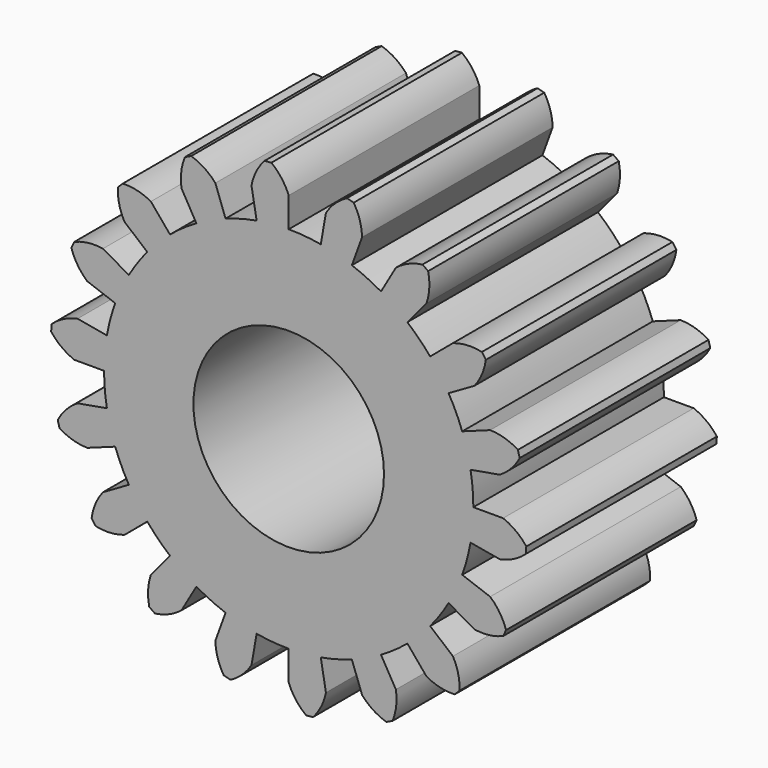
from build123d import *

# Parameters (mm, degrees)
F0_R     = 4
F1_DEPTH = 10


with BuildPart() as f1:
    # F0 (on Front) → F1 (new body)
    with BuildSketch(Plane.XZ):
        with BuildLine():
            Line((-1.562834, 8.86327), (-1.345773, 7.63226))
            ThreePointArc((-1.345773, 7.63226), (-2.005848, 7.485925), (-2.650656, 7.282618))
            Line((-2.650656, 7.282618), (-3.078181, 8.457234))
            ThreePointArc((-3.078181, 8.457234), (-3.540527, 8.860187), (-4.094507, 9.123322))
            Line((-4.094507, 9.123322), (-4.356972, 9.000933))
            ThreePointArc((-4.356972, 9.000933), (-4.51149, 8.407419), (-4.5, 7.794229))
            Line((-4.5, 7.794229), (-3.875, 6.711697))
            ThreePointArc((-3.875, 6.711697), (-4.445217, 6.348428), (-4.981604, 5.936844))
            Line((-4.981604, 5.936844), (-5.785088, 6.8944))
            ThreePointArc((-5.785088, 6.8944), (-6.357369, 7.114921), (-6.967938, 7.172715))
            Line((-6.967938, 7.172715), (-7.172715, 6.967938))
            ThreePointArc((-7.172715, 6.967938), (-7.114921, 6.357369), (-6.8944, 5.785088))
            Line((-6.8944, 5.785088), (-5.936844, 4.981604))
            ThreePointArc((-5.936844, 4.981604), (-6.348428, 4.445217), (-6.711697, 3.875))
            Line((-6.711697, 3.875), (-7.794229, 4.5))
            ThreePointArc((-7.794229, 4.5), (-8.407419, 4.51149), (-9.000933, 4.356972))
            Line((-9.000933, 4.356972), (-9.123322, 4.094507))
            ThreePointArc((-9.123322, 4.094507), (-8.860187, 3.540527), (-8.457234, 3.078181))
            Line((-8.457234, 3.078181), (-7.282618, 2.650656))
            ThreePointArc((-7.282618, 2.650656), (-7.485925, 2.005848), (-7.63226, 1.345773))
            Line((-7.63226, 1.345773), (-8.86327, 1.562834))
            ThreePointArc((-8.86327, 1.562834), (-9.44341, 1.363908), (-9.948283, 1.015714))
            Line((-9.948283, 1.015714), (-9.973523, 0.727218))
            ThreePointArc((-9.973523, 0.727218), (-9.536784, 0.296644), (-9, 0))
            Line((-9, 0), (-7.75, 0))
            ThreePointArc((-7.75, 0), (-7.720509, -0.675457), (-7.63226, -1.345773))
            Line((-7.63226, -1.345773), (-8.86327, -1.562834))
            ThreePointArc((-8.86327, -1.562834), (-9.340387, -1.948183), (-9.695722, -2.448054))
            Line((-9.695722, -2.448054), (-9.620769, -2.727784))
            ThreePointArc((-9.620769, -2.727784), (-9.063104, -2.983018), (-8.457234, -3.078181))
            Line((-8.457234, -3.078181), (-7.282618, -2.650656))
            ThreePointArc((-7.282618, -2.650656), (-7.023885, -3.275292), (-6.711697, -3.875))
            Line((-6.711697, -3.875), (-7.794229, -4.5))
            ThreePointArc((-7.794229, -4.5), (-8.110775, -5.025293), (-8.273715, -5.616551))
            Line((-8.273715, -5.616551), (-8.107608, -5.853776))
            ThreePointArc((-8.107608, -5.853776), (-7.496279, -5.902884), (-6.8944, -5.785088))
            Line((-6.8944, -5.785088), (-5.936844, -4.981604))
            ThreePointArc((-5.936844, -4.981604), (-5.480078, -5.480078), (-4.981604, -5.936844))
            Line((-4.981604, -5.936844), (-5.785088, -6.8944))
            ThreePointArc((-5.785088, -6.8944), (-5.902884, -7.496279), (-5.853776, -8.107608))
            Line((-5.853776, -8.107608), (-5.616551, -8.273715))
            ThreePointArc((-5.616551, -8.273715), (-5.025293, -8.110775), (-4.5, -7.794229))
            Line((-4.5, -7.794229), (-3.875, -6.711697))
            ThreePointArc((-3.875, -6.711697), (-3.275292, -7.023885), (-2.650656, -7.282618))
            Line((-2.650656, -7.282618), (-3.078181, -8.457234))
            ThreePointArc((-3.078181, -8.457234), (-2.983018, -9.063104), (-2.727784, -9.620769))
            Line((-2.727784, -9.620769), (-2.448054, -9.695722))
            ThreePointArc((-2.448054, -9.695722), (-1.948183, -9.340387), (-1.562834, -8.86327))
            Line((-1.562834, -8.86327), (-1.345773, -7.63226))
            ThreePointArc((-1.345773, -7.63226), (-0.675457, -7.720509), (0, -7.75))
            Line((0, -7.75), (0, -9))
            ThreePointArc((0, -9), (0.296644, -9.536784), (0.727218, -9.973523))
            Line((0.727218, -9.973523), (1.015714, -9.948283))
            ThreePointArc((1.015714, -9.948283), (1.363908, -9.44341), (1.562834, -8.86327))
            Line((1.562834, -8.86327), (1.345773, -7.63226))
            ThreePointArc((1.345773, -7.63226), (2.005848, -7.485925), (2.650656, -7.282618))
            Line((2.650656, -7.282618), (3.078181, -8.457234))
            ThreePointArc((3.078181, -8.457234), (3.540527, -8.860187), (4.094507, -9.123322))
            Line((4.094507, -9.123322), (4.356972, -9.000933))
            ThreePointArc((4.356972, -9.000933), (4.51149, -8.407419), (4.5, -7.794229))
            Line((4.5, -7.794229), (3.875, -6.711697))
            ThreePointArc((3.875, -6.711697), (4.445217, -6.348428), (4.981604, -5.936844))
            Line((4.981604, -5.936844), (5.785088, -6.8944))
            ThreePointArc((5.785088, -6.8944), (6.357369, -7.114921), (6.967938, -7.172715))
            Line((6.967938, -7.172715), (7.172715, -6.967938))
            ThreePointArc((7.172715, -6.967938), (7.114921, -6.357369), (6.8944, -5.785088))
            Line((6.8944, -5.785088), (5.936844, -4.981604))
            ThreePointArc((5.936844, -4.981604), (6.348428, -4.445217), (6.711697, -3.875))
            Line((6.711697, -3.875), (7.794229, -4.5))
            ThreePointArc((7.794229, -4.5), (8.407419, -4.51149), (9.000933, -4.356972))
            Line((9.000933, -4.356972), (9.123322, -4.094507))
            ThreePointArc((9.123322, -4.094507), (8.860187, -3.540527), (8.457234, -3.078181))
            Line((8.457234, -3.078181), (7.282618, -2.650656))
            ThreePointArc((7.282618, -2.650656), (7.485925, -2.005848), (7.63226, -1.345773))
            Line((7.63226, -1.345773), (8.86327, -1.562834))
            ThreePointArc((8.86327, -1.562834), (9.44341, -1.363908), (9.948283, -1.015714))
            Line((9.948283, -1.015714), (9.973523, -0.727218))
            ThreePointArc((9.973523, -0.727218), (9.536784, -0.296644), (9, 0))
            Line((9, 0), (7.75, 0))
            ThreePointArc((7.75, 0), (7.720509, 0.675457), (7.63226, 1.345773))
            Line((7.63226, 1.345773), (8.86327, 1.562834))
            ThreePointArc((8.86327, 1.562834), (9.340387, 1.948183), (9.695722, 2.448054))
            Line((9.695722, 2.448054), (9.620769, 2.727784))
            ThreePointArc((9.620769, 2.727784), (9.063104, 2.983018), (8.457234, 3.078181))
            Line((8.457234, 3.078181), (7.282618, 2.650656))
            ThreePointArc((7.282618, 2.650656), (7.023885, 3.275292), (6.711697, 3.875))
            Line((6.711697, 3.875), (7.794229, 4.5))
            ThreePointArc((7.794229, 4.5), (8.110775, 5.025293), (8.273715, 5.616551))
            Line((8.273715, 5.616551), (8.107608, 5.853776))
            ThreePointArc((8.107608, 5.853776), (7.496279, 5.902884), (6.8944, 5.785088))
            Line((6.8944, 5.785088), (5.936844, 4.981604))
            ThreePointArc((5.936844, 4.981604), (5.480078, 5.480078), (4.981604, 5.936844))
            Line((4.981604, 5.936844), (5.785088, 6.8944))
            ThreePointArc((5.785088, 6.8944), (5.902884, 7.496279), (5.853776, 8.107608))
            Line((5.853776, 8.107608), (5.616551, 8.273715))
            ThreePointArc((5.616551, 8.273715), (5.025293, 8.110775), (4.5, 7.794229))
            Line((4.5, 7.794229), (3.875, 6.711697))
            ThreePointArc((3.875, 6.711697), (3.275292, 7.023885), (2.650656, 7.282618))
            Line((2.650656, 7.282618), (3.078181, 8.457234))
            ThreePointArc((3.078181, 8.457234), (2.983018, 9.063104), (2.727784, 9.620769))
            Line((2.727784, 9.620769), (2.448054, 9.695722))
            ThreePointArc((2.448054, 9.695722), (1.948183, 9.340387), (1.562834, 8.86327))
            Line((1.562834, 8.86327), (1.345773, 7.63226))
            ThreePointArc((1.345773, 7.63226), (0.675457, 7.720509), (0, 7.75))
            Line((0, 7.75), (0, 9))
            ThreePointArc((0, 9), (-0.296644, 9.536784), (-0.727218, 9.973523))
            Line((-0.727218, 9.973523), (-1.015714, 9.948283))
            ThreePointArc((-1.015714, 9.948283), (-1.363908, 9.44341), (-1.562834, 8.86327))
        make_face()
        Circle(F0_R, mode=Mode.SUBTRACT)
    extrude(amount=F1_DEPTH)


solid = f1.part
